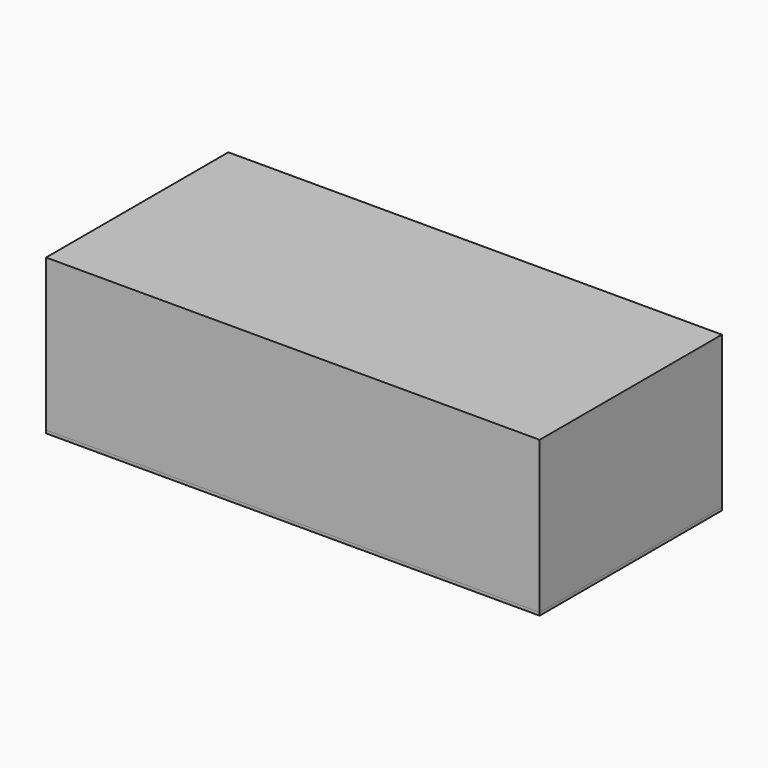
from build123d import *

# Parameters (mm, degrees)
F1_W     = 1300
F1_H     = 600
F2_DEPTH = 400
F3_W     = 1300
F3_H     = 600
F4_DEPTH = 7.8


with BuildPart() as f2:
    # F1 (on offset) → F2 (new body)
    with BuildSketch(Plane.XY.offset(6)):
        Rectangle(F1_W, F1_H)
    extrude(amount=F2_DEPTH)


with BuildPart() as f4:
    # F3 (on face) → F4 (new body)
    with BuildSketch(Plane(origin=(0, 0, 6), x_dir=(1, 0, 0), z_dir=(0, 0, -1))):
        Rectangle(F3_W, F3_H)
        Rectangle(F3_W, F3_H)
    extrude(amount=F4_DEPTH)


solid = Compound([f2.part, f4.part])
